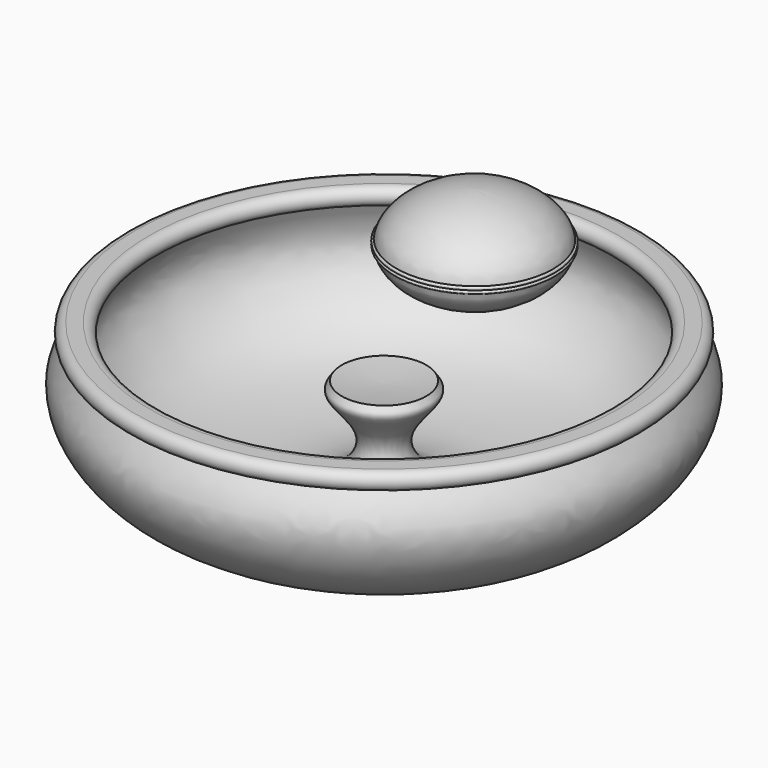
from build123d import *


with BuildPart() as f2:
    # F1 (on Front) → F2 (revolve)
    with BuildSketch(Plane.XZ):
        with BuildLine():
            Line((100.9539597918, 153.6869357028), (53.8946625204, 154.3961807153))
            Line((53.8946625204, 154.3961807153), (53.6843575537, 126.4855663843))
            add(Edge.make_bspline(
                [(100.803516557, 151.7260234562), (98.8342249639, 138.6200750679), (77.8074213832, 126.4855663843), (53.6843575537, 126.4855663843)],
                knots=[0.5244733631, 0.5244733631, 0.5244733631, 0.5244733631, 1, 1, 1, 1], degree=3))
            add(Edge.make_bspline(
                [(100.9539597918, 153.6869357028), (100.952241415, 153.0318113209), (100.901439532, 152.3777164107), (100.803516557, 151.7260234562)],
                knots=[0.500827813, 0.500827813, 0.500827813, 0.500827813, 0.5244733631, 0.5244733631, 0.5244733631, 0.5244733631], degree=3))
        make_face()
        with BuildLine():
            Line((54.1049758127, 182.3078999976), (53.8946625204, 154.3961807153))
            Line((53.8946625204, 154.3961807153), (100.9539597918, 153.6869357028))
            add(Edge.make_bspline(
                [(100.8108097367, 155.6750479236), (100.9072880341, 155.0123348294), (100.9556966589, 154.3491093933), (100.9539597918, 153.6869357028)],
                knots=[0.4769278307, 0.4769278307, 0.4769278307, 0.4769278307, 0.500827813, 0.500827813, 0.500827813, 0.500827813], degree=3))
            add(Edge.make_bspline(
                [(54.1049758127, 182.3078999976), (77.8185945672, 181.9201129899), (98.885570446, 168.899589839), (100.8108097367, 155.6750479236)],
                knots=[0, 0, 0, 0, 0.4769278307, 0.4769278307, 0.4769278307, 0.4769278307], degree=3))
        make_face()
        with BuildLine():
            ThreePointArc((100.803516557, 151.7260234562), (101.9214264961, 152.6264834428), (100.9539597918, 153.6869357028))
            add(Edge.make_bspline(
                [(100.9539597918, 153.6869357028), (100.952241415, 153.0318113209), (100.901439532, 152.3777164107), (100.803516557, 151.7260234562)],
                knots=[0.500827813, 0.500827813, 0.500827813, 0.500827813, 0.5244733631, 0.5244733631, 0.5244733631, 0.5244733631], degree=3))
        make_face()
        with BuildLine():
            add(Edge.make_bspline(
                [(100.8108097367, 155.6750479236), (100.9072880341, 155.0123348294), (100.9556966589, 154.3491093933), (100.9539597918, 153.6869357028)],
                knots=[0.4769278307, 0.4769278307, 0.4769278307, 0.4769278307, 0.500827813, 0.500827813, 0.500827813, 0.500827813], degree=3))
            ThreePointArc((100.9539597918, 153.6869357028), (101.9668611364, 154.7590773713), (100.8108097367, 155.6750479236))
        make_face()
    revolve(axis=Axis((53.8946666832, 0, 154.3967331909), (-0.0075347319, 0, -0.9999716135)))


with BuildPart() as f3:
    # F0 (on Front) → F3 (revolve)
    with BuildSketch(Plane.XZ):
        with BuildLine():
            Line((0, 62.3556279482), (0, 4.2238785906))
            Line((0, 4.2238785906), (24.3884218393, 4.2238785906))
            Line((24.3884218393, 4.2238785906), (22.4765949153, 0))
            Line((22.4765949153, 0), (77.4611339211, 0))
            add(Edge.make_bspline(
                [(77.4611339211, 0), (93.1666108313, 4.4207265781), (118.8279367256, 10.900967145), (149.6085224499, 34.6725917007), (161.1691432434, 64.6338629446), (152.4828639266, 78.0701809548), (148.0919038487, 84.4627729874)],
                knots=[0, 0, 0, 0, 0.2902244782, 0.5587100408, 0.7935926793, 1, 1, 1, 1], degree=3))
            ThreePointArc((148.0919038487, 84.4627729874), (153.1941018693, 89.7313864937), (148.0919038487, 95))
            Line((148.0919038487, 95), (139.8718477782, 95))
            ThreePointArc((139.8718477782, 95), (134.0954515401, 89.7313864937), (139.8718477782, 84.4627729874))
            add(Edge.make_bspline(
                [(25.1674968779, 64.365080406), (25.978444339, 63.0336382539), (28.5149868586, 60.5833814618), (25.5218148064, 53.8373623201), (5.0445680111, 34.2678997906), (30.1284148895, 4.4705643486), (90.427654348, 12.0381119288), (128.2790409079, 25.6820966453), (151.0308275998, 58.5421357466), (144.8969104121, 73.965502905), (139.8718477782, 84.4627729874)],
                knots=[0, 0, 0, 0, 0.0525259607, 0.1152077892, 0.2372570414, 0.3700571217, 0.5621794333, 0.7242687141, 0.8697040471, 1, 1, 1, 1], degree=3))
            add(Edge.make_bspline(
                [(0, 62.3556279482), (10.1464483752, 62.3556279482), (24.8383038806, 64.2631190964), (25.1674968779, 64.365080406)],
                knots=[0, 0, 0, 0, 0.9159831513, 0.9159831513, 0.9159831513, 0.9159831513], degree=3))
        make_face()
    revolve(axis=Axis((0, 0, 47.5), (0, 0, 1)))


solid = Compound([f2.part, f3.part])
